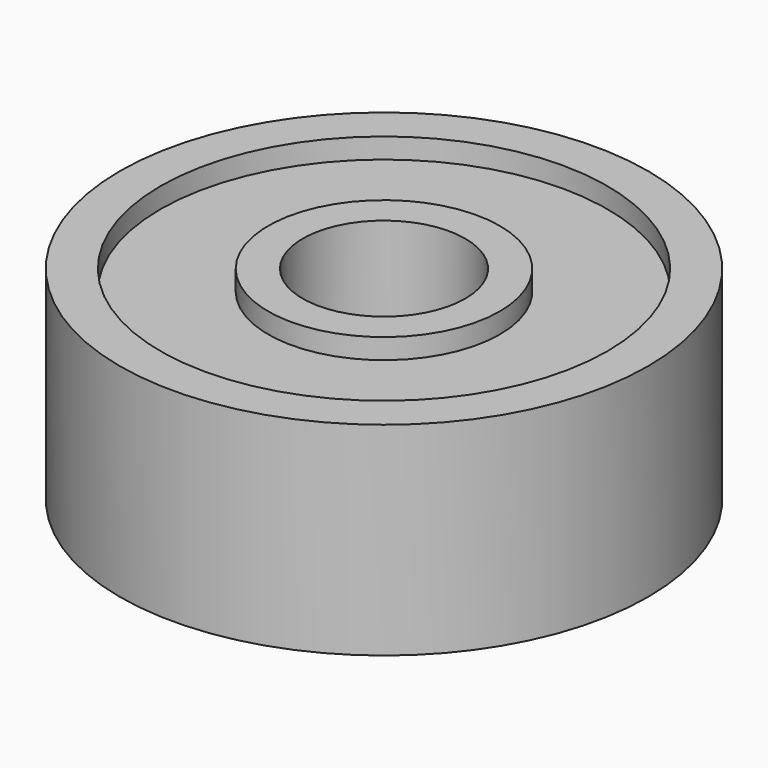
from build123d import *

# Parameters (mm, degrees)
SKETCH_R        = 6.5
SKETCH_R_2      = 2
PAD_DEPTH       = 5
SKETCH001_R     = 5.5
SKETCH001_R_2   = 2.85
POCKET_DEPTH    = 0.5
SKETCH002_R     = 5.5
SKETCH002_R_2   = 2.85
POCKET001_DEPTH = 0.5


with BuildPart() as part:
    # Sketch → Pad (new body)
    with BuildSketch(Plane.XY):
        Circle(SKETCH_R)
        Circle(SKETCH_R_2, mode=Mode.SUBTRACT)
    extrude(amount=PAD_DEPTH)

    # Sketch001 (on Face4 of Pad) → Pocket (cut)
    with BuildSketch(Plane.XY.offset(5)):
        Circle(SKETCH001_R)
        Circle(SKETCH001_R_2, mode=Mode.SUBTRACT)
    extrude(amount=-POCKET_DEPTH, mode=Mode.SUBTRACT)

    # Sketch002 (on Face2 of Pocket) → Pocket001 (cut)
    with BuildSketch(Plane(origin=(0, 0, 0), x_dir=(1, 0, 0), z_dir=(0, 0, -1))):
        Circle(SKETCH002_R)
        Circle(SKETCH002_R_2, mode=Mode.SUBTRACT)
    extrude(amount=-POCKET001_DEPTH, mode=Mode.SUBTRACT)


solid = part.part
